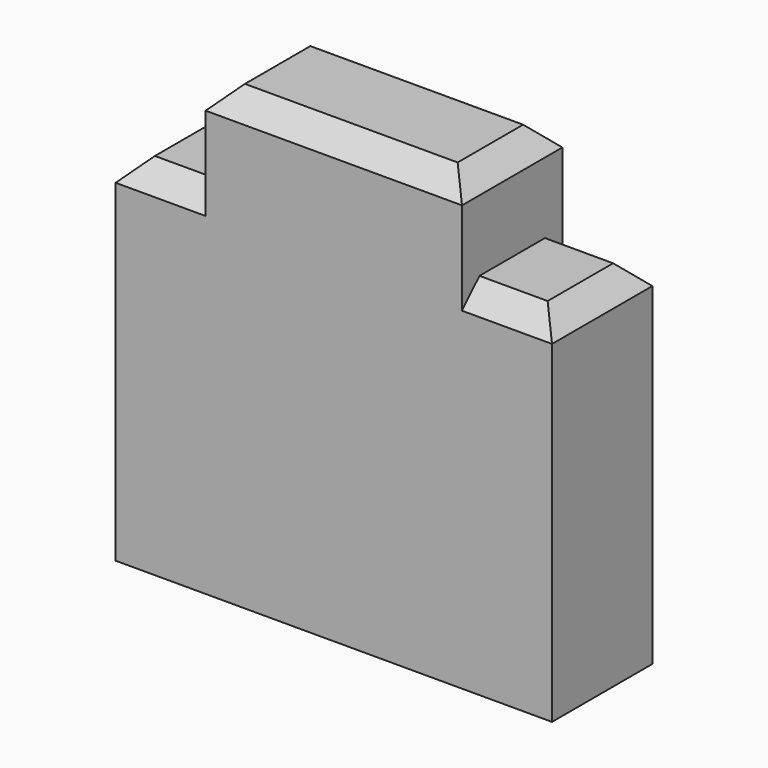
from build123d import *

# Parameters (mm, degrees)
SKETCH008_W     = 4
SKETCH008_H     = 1.15
PAD005_DEPTH    = 4.1
SKETCH009_W     = 0.825
SKETCH009_H     = 0.85
POCKET002_DEPTH = 5
CHAMFER005_SIZE = 0.2


with BuildPart() as part:
    # Sketch008 → Pad005 (new body)
    with BuildSketch(Plane.XY):
        Rectangle(SKETCH008_W, SKETCH008_H)
    extrude(amount=PAD005_DEPTH)

    # Sketch009 (on Face1 of Pad005) → Pocket002 (cut)
    with BuildSketch(Plane(origin=(0, 0.575, 0), x_dir=(-1, 0, 0), z_dir=(0, 1, 0))):
        with Locations((-1.5875, 3.675)):
            Rectangle(SKETCH009_W, SKETCH009_H)
        with Locations((1.5875, 3.675)):
            Rectangle(SKETCH009_W, SKETCH009_H)
    extrude(amount=-POCKET002_DEPTH, mode=Mode.SUBTRACT)

    # Chamfer005
    chamfer005_edges = [part.edges().sort_by_distance(p)[0] for p in [
        (0, 0.575, 4.1),
        (0, -0.575, 4.1),
        (1.5875, 0.575, 3.25),
        (-1.5875, 0.575, 3.25),
        (-1.5875, -0.575, 3.25),
        (1.5875, -0.575, 3.25),
        (2, 0, 3.25),
        (-2, 0, 3.25),
        (1.175, 0, 4.1),
        (-1.175, 0, 4.1),
    ]]
    chamfer(chamfer005_edges, length=CHAMFER005_SIZE)


with BuildPart() as part_1:
    # Body045 placement: moved
    add(part.part.moved(Location((0, 66, 0))))


solid = part_1.part
